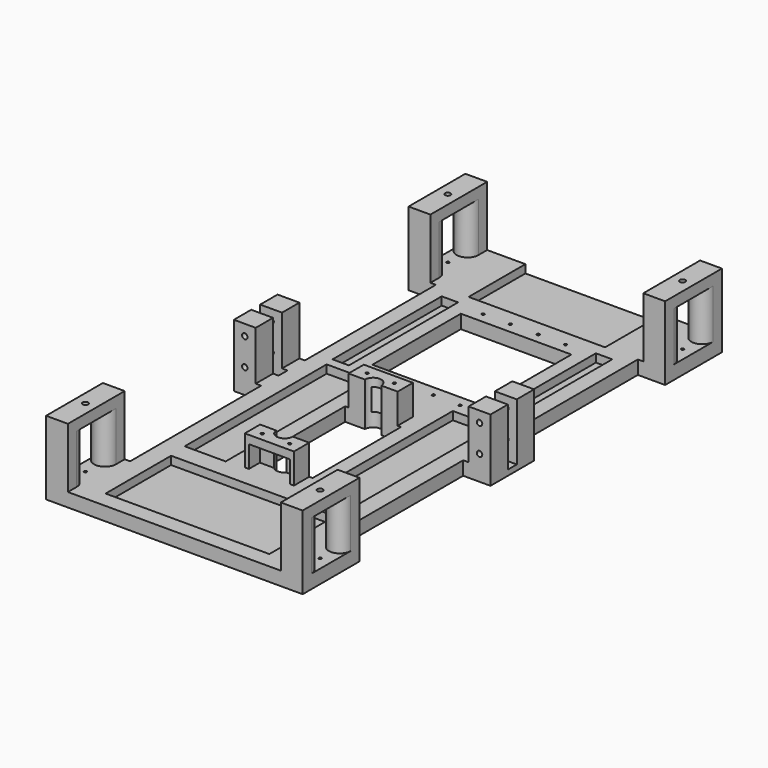
from build123d import *

# Parameters (mm, degrees)
SKETCH_R        = 0.5
SKETCH_W        = 40.5
SKETCH_H        = 40.5
PAD_DEPTH       = 5
SKETCH001_W     = 50
SKETCH001_H     = 29.097618
SKETCH001_W_2   = 6
SKETCH001_H_2   = 50
SKETCH001_W_3   = 21.595833
SKETCH001_H_3   = 4.1
SKETCH001_W_4   = 20.110661
SKETCH001_W_5   = 15
SKETCH001_H_4   = 65
SKETCH001_W_6   = 60
SKETCH001_H_5   = 30
POCKET_DEPTH    = 3
SKETCH002_W     = 8
SKETCH002_H     = 7.95
PAD001_DEPTH    = 18
SKETCH003_R     = 1
POCKET001_DEPTH = 20
PAD002_DEPTH    = 18
SKETCH005_W     = 8
SKETCH005_H     = 26
SKETCH005_R     = 1
PAD003_DEPTH    = 4
SKETCH006_R     = 0.5
PAD004_DEPTH    = 11
SKETCH007_W     = 15
SKETCH007_H     = 8
POCKET002_DEPTH = 5
SKETCH008_W     = 15
SKETCH008_H     = 8
POCKET003_DEPTH = 5


with BuildPart() as part:
    # Sketch → Pad (new body)
    with BuildSketch(Plane.XY):
        Polygon((-47, 96), (47, 96), (47, 70), (37, 70), (37, 10), (47, 10), (47, -10), (37, -10), (37, -70), (47, -70), (47, -96), (-47, -96), (-47, -70), (-37, -70), (-37, -10), (-47, -10), (-47, 10), (-37, 10), (-37, 70), (-47, 70), align=None)
        with Locations((-15.1, 64.25)):
            Circle(SKETCH_R, mode=Mode.SUBTRACT)
        with Locations((-5.1, 64.25)):
            Circle(SKETCH_R, mode=Mode.SUBTRACT)
        with Locations((5.1, 64.25)):
            Circle(SKETCH_R, mode=Mode.SUBTRACT)
        with Locations((15.1, 64.25)):
            Circle(SKETCH_R, mode=Mode.SUBTRACT)
        with Locations((-15.1, 16.25)):
            Circle(SKETCH_R, mode=Mode.SUBTRACT)
        with Locations((-5.1, 16.25)):
            Circle(SKETCH_R, mode=Mode.SUBTRACT)
        with Locations((5.1, 16.25)):
            Circle(SKETCH_R, mode=Mode.SUBTRACT)
        with Locations((15.1, 16)):
            Circle(SKETCH_R, mode=Mode.SUBTRACT)
        with Locations((-43, 83)):
            Circle(SKETCH_R, mode=Mode.SUBTRACT)
        with Locations((43, 83)):
            Circle(SKETCH_R, mode=Mode.SUBTRACT)
        with Locations((43, -83)):
            Circle(SKETCH_R, mode=Mode.SUBTRACT)
        with Locations((-43, -83)):
            Circle(SKETCH_R, mode=Mode.SUBTRACT)
        with Locations((0, 40.25)):
            Rectangle(SKETCH_W, SKETCH_H, mode=Mode.SUBTRACT)
        with BuildLine():
            Line((-10.25, -5), (-3, -5))
            ThreePointArc((3, -5), (0, -2), (-3, -5))
            Line((3, -5), (10.25, -5))
            Line((10.25, -5), (10.25, -45.5))
            Line((10.25, -45.5), (3, -45.5))
            ThreePointArc((-3, -45.5), (0, -48.5), (3, -45.5))
            Line((-3, -45.5), (-10.25, -45.5))
            Line((-10.25, -45.5), (-10.25, -5))
        make_face(mode=Mode.SUBTRACT)
    extrude(amount=PAD_DEPTH)

    # Sketch001 → Pocket (cut)
    with BuildSketch(Plane.XY.offset(5)):
        with Locations((0, 84.548809)):
            Rectangle(SKETCH001_W, SKETCH001_H)
        with Locations((-28.241235, 40.47918)):
            Rectangle(SKETCH001_W_2, SKETCH001_H_2)
        with Locations((28.241235, 40.47918)):
            Rectangle(SKETCH001_W_2, SKETCH001_H_2)
        with Locations((-47.797916, 0)):
            Rectangle(SKETCH001_W_3, SKETCH001_H_3)
        with Locations((47.05533, 0)):
            Rectangle(SKETCH001_W_4, SKETCH001_H_3)
        with Locations((-23.110925, -20.5)):
            Rectangle(SKETCH001_W_5, SKETCH001_H_4)
        with Locations((23.110925, -20.5)):
            Rectangle(SKETCH001_W_5, SKETCH001_H_4)
        with Locations((0, -75)):
            Rectangle(SKETCH001_W_6, SKETCH001_H_5)
    extrude(amount=-POCKET_DEPTH, mode=Mode.SUBTRACT)

    # Sketch002 → Pad001 (new body)
    with BuildSketch(Plane.XY.offset(5)):
        with Locations((43, 6.025)):
            Rectangle(SKETCH002_W, SKETCH002_H)
        with Locations((43, -6.025)):
            Rectangle(SKETCH002_W, SKETCH002_H)
    pad001 = extrude(amount=PAD001_DEPTH)

    # Mirrored: Pad001 across Sketch002 V_Axis
    add(pad001.mirror(Plane(origin=(0, 0, 5), x_dir=(0, 0, 1), z_dir=(1, 0, 0))))

    # Sketch003 → Pocket001 (cut)
    with BuildSketch(Plane.XZ.offset(10)):
        with Locations((43, 19)):
            Circle(SKETCH003_R)
        with Locations((43, 9)):
            Circle(SKETCH003_R)
    pocket001 = extrude(amount=-POCKET001_DEPTH, mode=Mode.SUBTRACT)

    # Mirrored001: Pocket001 across Sketch003 V_Axis
    add(pocket001.mirror(Plane(origin=(0, -10, 0), x_dir=(0, -1, 0), z_dir=(1, 0, 0))), mode=Mode.SUBTRACT)

    # Sketch004 → Pad002 (new body)
    with BuildSketch(Plane.XY.offset(5)):
        with BuildLine():
            Line((39, 96), (47, 96))
            Line((47, 96), (47, 92))
            ThreePointArc((39, 92), (43, 88), (47, 92))
            Line((39, 92), (39, 96))
        make_face()
        with BuildLine():
            Line((47, 74.000025), (47, 70))
            Line((47, 70), (39, 70))
            Line((39, 70), (39, 74))
            ThreePointArc((47, 74.000025), (42.999988, 78.000012), (39, 74))
        make_face()
        with BuildLine():
            Line((39, -70), (47, -70))
            Line((47, -70), (47, -74))
            ThreePointArc((39, -74), (43, -78), (47, -74))
            Line((39, -74), (39, -70))
        make_face()
        with BuildLine():
            Line((47, -92), (47, -96))
            Line((47, -96), (39, -96))
            Line((39, -96), (39, -92))
            ThreePointArc((47, -92), (43, -88), (39, -92))
        make_face()
    pad002 = extrude(amount=PAD002_DEPTH)

    # Mirrored002: Pad002 across Sketch004 V_Axis
    add(pad002.mirror(Plane(origin=(0, 0, 5), x_dir=(0, 0, 1), z_dir=(1, 0, 0))))

    # Sketch005 → Pad003 (new body)
    with BuildSketch(Plane.XY.offset(23)):
        with Locations((43, 83)):
            Rectangle(SKETCH005_W, SKETCH005_H)
        with Locations((43, 83)):
            Circle(SKETCH005_R, mode=Mode.SUBTRACT)
        with Locations((43, -83)):
            Rectangle(SKETCH005_W, SKETCH005_H)
        with Locations((43, -83)):
            Circle(SKETCH005_R, mode=Mode.SUBTRACT)
    pad003 = extrude(amount=PAD003_DEPTH)

    # Mirrored003: Pad003 across Sketch005 V_Axis
    add(pad003.mirror(Plane(origin=(0, 0, 23), x_dir=(0, 0, 1), z_dir=(1, 0, 0))))

    # Sketch006 → Pad004 (new body)
    with BuildSketch(Plane.XY.offset(5)):
        with BuildLine():
            Line((-9, 2), (9, 2))
            Line((9, 2), (9, -5))
            Line((9, -5), (3, -5))
            ThreePointArc((3, -5), (0, -2), (-3, -5))
            Line((-3, -5), (-9, -5))
            Line((-9, -5), (-9, 2))
        make_face()
        with Locations((-5, -1.5)):
            Circle(SKETCH006_R, mode=Mode.SUBTRACT)
        with Locations((5, -1.5)):
            Circle(SKETCH006_R, mode=Mode.SUBTRACT)
        with BuildLine():
            Line((-9, -45.5), (-3, -45.5))
            ThreePointArc((-3, -45.5), (0, -48.5), (3, -45.5))
            Line((3, -45.5), (9, -45.5))
            Line((9, -45.5), (9, -52.5))
            Line((9, -52.5), (-9, -52.5))
            Line((-9, -52.5), (-9, -45.5))
        make_face()
        with Locations((-5, -49.5)):
            Circle(SKETCH006_R, mode=Mode.SUBTRACT)
        with Locations((5, -49.5)):
            Circle(SKETCH006_R, mode=Mode.SUBTRACT)
    extrude(amount=PAD004_DEPTH)

    # Sketch007 → Pocket002 (cut)
    with BuildSketch(Plane.XZ.offset(52.5)):
        with Locations((0, 9)):
            Rectangle(SKETCH007_W, SKETCH007_H)
    extrude(amount=-POCKET002_DEPTH, mode=Mode.SUBTRACT)

    # Sketch008 → Pocket003 (cut)
    with BuildSketch(Plane(origin=(0, 2, 0), x_dir=(-1, 0, 0), z_dir=(0, 1, 0))):
        with Locations((0, 9)):
            Rectangle(SKETCH008_W, SKETCH008_H)
    extrude(amount=-POCKET003_DEPTH, mode=Mode.SUBTRACT)


solid = part.part
